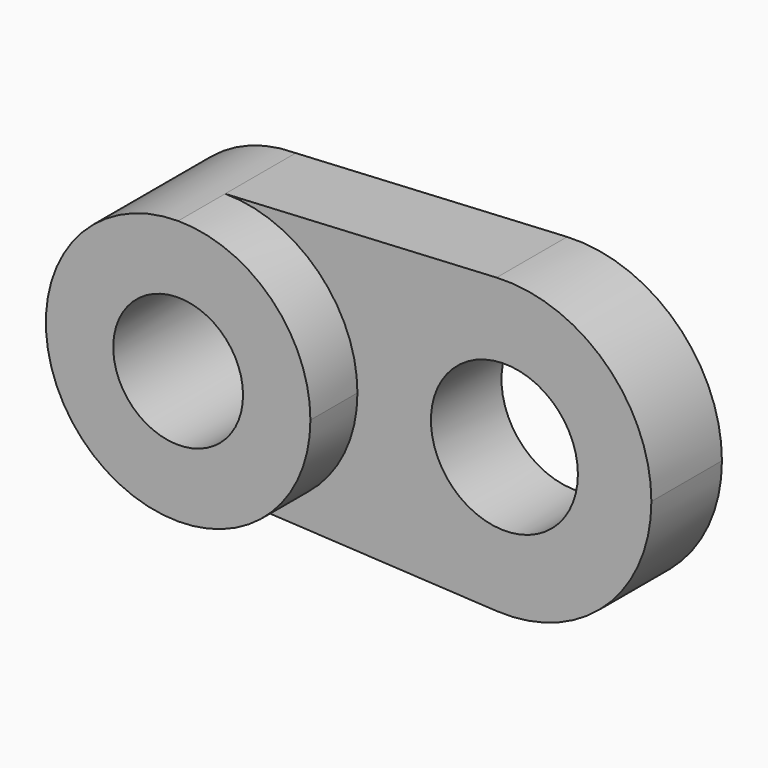
from build123d import *

# Parameters (mm, degrees)
F0_R     = 28.040678
F0_R_2   = 31.75
F1_DEPTH = 38.1
F2_DEPTH = 63.5


with BuildPart() as f1:
    # F0 (on Front) → F1 (new body)
    with BuildSketch(Plane.XZ):
        with BuildLine():
            ThreePointArc((0, -57.15), (40.411153, -40.411153), (57.15, 0))
            ThreePointArc((57.15, 0), (40.411153, 40.411153), (0, 57.15))
            ThreePointArc((0, 57.15), (-57.15, 0), (0, -57.15))
        make_face()
        Circle(F0_R, mode=Mode.SUBTRACT)
        with BuildLine():
            ThreePointArc((117.265131, -63.409721), (74.567524, -43.688161), (57.15, 0))
            ThreePointArc((57.15, 0), (40.411153, -40.411153), (0, -57.15))
            Line((0, -57.15), (117.265131, -63.409721))
        make_face()
        with BuildLine():
            ThreePointArc((0, 57.15), (40.411153, 40.411153), (57.15, 0))
            ThreePointArc((57.15, 0), (74.567524, 43.688161), (117.265131, 63.409721))
            Line((117.265131, 63.409721), (0, 57.15))
        make_face()
        with BuildLine():
            ThreePointArc((117.265131, 63.409721), (74.567524, 43.688161), (57.15, 0))
            ThreePointArc((57.15, 0), (74.567524, -43.688161), (117.265131, -63.409721))
            ThreePointArc((117.265131, -63.409721), (164.338161, -46.082476), (184.15, 0))
            ThreePointArc((184.15, 0), (164.338161, 46.082476), (117.265131, 63.409721))
        make_face()
        with Locations((120.65, 0)):
            Circle(F0_R_2, mode=Mode.SUBTRACT)
    extrude(amount=F1_DEPTH)

    # F0 (on Front) → F2 (join)
    with BuildSketch(Plane.XZ):
        with BuildLine():
            ThreePointArc((0, -57.15), (40.411153, -40.411153), (57.15, 0))
            ThreePointArc((57.15, 0), (40.411153, 40.411153), (0, 57.15))
            ThreePointArc((0, 57.15), (-57.15, 0), (0, -57.15))
        make_face()
        Circle(F0_R, mode=Mode.SUBTRACT)
    extrude(amount=F2_DEPTH)


solid = f1.part
